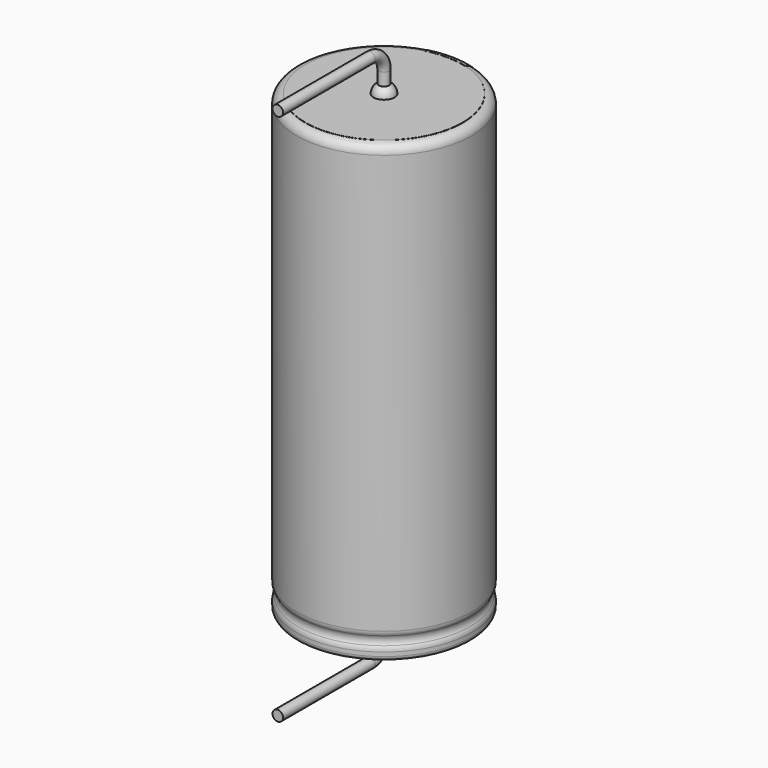
from build123d import *

# Parameters (mm, degrees)
SKETCH011_R             = 0.3
BODY007_PLACEMENT_ANGLE = 180
REVOLUTION001_ANGLE     = -30
POCKET_DEPTH            = 5.011
LINEARPATTERN_COUNT     = 6
LINEARPATTERN_PITCH     = 4.2
SKETCH012_R             = 4.5
PAD_DEPTH               = 0.01
BODY008_PLACEMENT_ANGLE = 90


with BuildPart() as lead:
    # AdditivePipe: sweep along a path in Sketch010
    with BuildLine(Plane(origin=(0, 0, 0), x_dir=(0, -1, 0), z_dir=(-1, 0, 0))) as additivepipe_path:
        Line((0, 26), (0, 27.24))
        ThreePointArc((0, 27.24), (0.292893, 27.947107), (1, 28.24))
        Line((1, 28.24), (7.6, 28.24))
    # Sketch011 → AdditivePipe (sweep)
    with BuildSketch(Plane.XY.offset(26)):
        Circle(SKETCH011_R)
    sweep(path=additivepipe_path.line)


with BuildPart() as obj1:
    # Body007 base: copy of Lead
    add(lead.part)


with BuildPart() as obj1_1:
    # Body007 placement: moved
    add(obj1.part.moved(Location((0, 0, 26))).rotate(Axis((0, 0, 26), (0, 1, 0)), BODY007_PLACEMENT_ANGLE))


with BuildPart() as polaritymarking:
    # Sketch005 → Revolution001 (revolve)
    with BuildSketch(Plane(origin=(0, 0, 0), x_dir=(-0.258819, 0.965926, 0), z_dir=(0.965926, 0.258819, 0))):
        with BuildLine():
            Line((4.51, 0.043526), (4.51, 26.01))
            ThreePointArc((4.51, 26.01), (4.863553, 25.863553), (5.01, 25.51))
            Line((5.01, 25.51), (5.01, 1.523941))
            ThreePointArc((5.01, 1.523941), (4.989134, 1.381006), (4.928278, 1.25))
            ThreePointArc((4.928278, 1.25), (4.853698, 1), (4.928278, 0.75))
            ThreePointArc((4.928278, 0.75), (4.989134, 0.618994), (5.01, 0.476059))
            Line((5.01, 0.476059), (5.01, 0.043526))
            ThreePointArc((5.01, 0.043526), (4.76, -0.206474), (4.51, 0.043526))
        make_face()
    revolve(axis=Axis((0, 0, 0), (0, 0, 1)), revolution_arc=REVOLUTION001_ANGLE)

    # Sketch013 → Pocket (cut, through all)
    with BuildSketch(Plane.XZ):
        Polygon((0.375, 2), (-0.375, 2), (-0.375, 3), (0, 3.5), (0.375, 3), align=None)
    pocket = extrude(amount=-POCKET_DEPTH, mode=Mode.SUBTRACT)

    # LinearPattern: Pocket ×6
    with Locations(*[(0, 0, i * LINEARPATTERN_PITCH) for i in range(1, LINEARPATTERN_COUNT)]):
        add(pocket, mode=Mode.SUBTRACT)


with BuildPart() as housing:
    # Sketch → Revolution (revolve)
    with BuildSketch(Plane.XZ):
        with BuildLine():
            Line((0, 26), (4.5, 26))
            ThreePointArc((5, 25.5), (4.853553, 25.853553), (4.5, 26))
            Line((5, 25.5), (5, 1.523941))
            ThreePointArc((4.918278, 1.25), (4.979134, 1.381006), (5, 1.523941))
            ThreePointArc((4.918278, 1.25), (4.843698, 1), (4.918278, 0.75))
            ThreePointArc((5, 0.476059), (4.979134, 0.618994), (4.918278, 0.75))
            Line((5, 0.476059), (5, 0.25))
            ThreePointArc((4.75, 0), (4.926777, 0.073223), (5, 0.25))
            Line((0, 0), (4.75, 0))
            Line((0, 26), (0, 0))
        make_face()
    revolve(axis=Axis((0, 0, 0), (0, 0, 1)))


with BuildPart() as fusion:
    # Sphere → Sphere (revolve)
    with BuildSketch(Plane.XZ):
        with BuildLine():
            ThreePointArc((0, -0.6), (0.6, 0), (0, 0.6))
            Line((0, 0.6), (0, -0.6))
        make_face()
    revolve(axis=Axis((0, 0, 0), (0, 0, 1)))

    # Sketch012 (on ShapeBinder) → Pad (new body)
    with BuildSketch(Plane(origin=(0, 0, 0), x_dir=(0, -1, 0), z_dir=(0, 0, 1))):
        Circle(SKETCH012_R)
    extrude(amount=PAD_DEPTH)


with BuildPart() as fusion_1:
    # Body008 placement: moved
    add(fusion.part.moved(Location((0, 0, 26))).rotate(Axis((0, 0, 26), (0, 0, -1)), BODY008_PLACEMENT_ANGLE))

    # Fusion: union obj1, Lead, PolarityMarking, Housing
    add(obj1_1.part)
    add(lead.part)
    add(polaritymarking.part)
    add(housing.part)


solid = fusion_1.part
